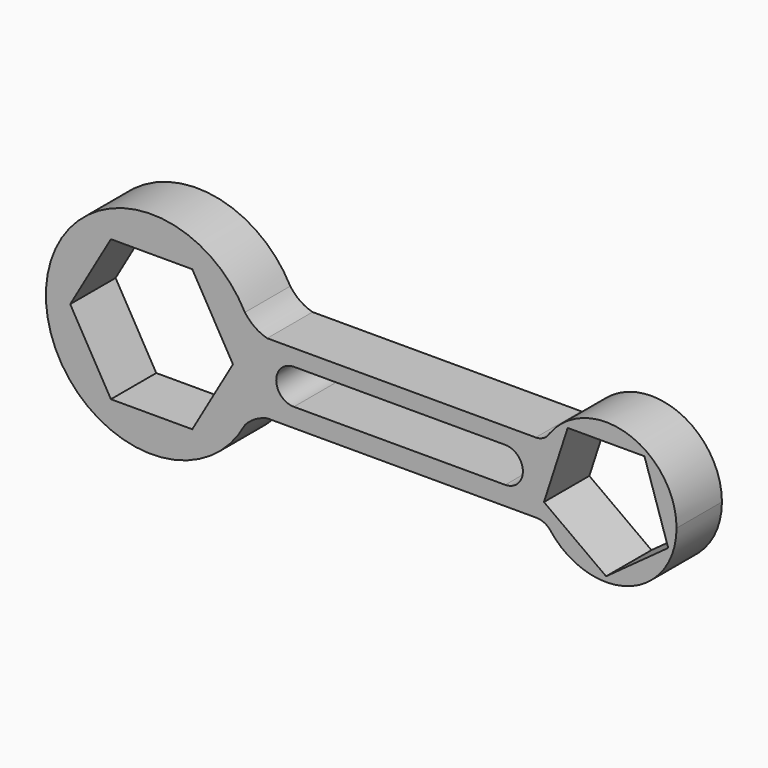
from build123d import *

# Parameters (mm, degrees)
F1_DEPTH = 16.1


with BuildPart() as f1:
    # F0 (on Front) → F1 (new body)
    with BuildSketch(Plane.XZ):
        with BuildLine():
            ThreePointArc((-102.505764, -6.33681), (-99.889632, 0.484755), (-99, 7.736407))
            ThreePointArc((-99, 7.736407), (-99.889632, 14.988059), (-102.505764, 21.809625))
            ThreePointArc((-102.505764, 21.809625), (-159, 7.736407), (-102.505764, -6.33681))
        make_face()
        Polygon((-152.094011, 7.736407), (-140.547005, 27.736407), (-117.452995, 27.736407), (-105.905989, 7.736407), (-117.452995, -12.263593), (-140.547005, -12.263593), align=None, mode=Mode.SUBTRACT)
        with BuildLine():
            ThreePointArc((-102.505764, 21.809625), (-99.889632, 14.988059), (-99, 7.736407))
            ThreePointArc((-99, 7.736407), (-99.889632, 0.484755), (-102.505764, -6.33681))
            ThreePointArc((-102.505764, -6.33681), (-99.648167, -3.961262), (-96.189544, -2.602213))
            Line((-96.189544, -2.602213), (-19.792281, -2.602213))
            ThreePointArc((-19.792281, -2.602213), (-17.772658, -3.010165), (-16.069729, -4.170053))
            ThreePointArc((-16.069729, -4.170053), (-19.995621, 7.317925), (-16.553813, 18.9601))
            ThreePointArc((-16.553813, 18.9601), (-18.084829, 17.807022), (-19.957294, 17.397787))
            Line((-19.957294, 17.397787), (-96.189544, 17.397787))
            ThreePointArc((-96.189544, 17.397787), (-99.734773, 19.049486), (-102.505764, 21.809625))
        make_face()
        with BuildLine():
            ThreePointArc((-88.614851, 2.736407), (-93.614851, 7.736407), (-88.614851, 12.736407))
            Line((-88.614851, 12.736407), (-28.614851, 12.736407))
            ThreePointArc((-28.614851, 12.736407), (-23.614851, 7.736407), (-28.614851, 2.736407))
            Line((-28.614851, 2.736407), (-88.614851, 2.736407))
        make_face(mode=Mode.SUBTRACT)
        with BuildLine():
            ThreePointArc((-16.069729, 19.642868), (-16.295821, 19.290176), (-16.553813, 18.9601))
            ThreePointArc((-16.553813, 18.9601), (-19.995621, 7.317925), (-16.069729, -4.170053))
            ThreePointArc((-16.069729, -4.170053), (6.269187, -11.255625), (20, 7.736407))
            ThreePointArc((20, 7.736407), (6.269187, 26.72844), (-16.069729, 19.642868))
        make_face()
        Polygon((-17.633558, 2.006917), (-10.898138, 22.736407), (10.898138, 22.736407), (17.633558, 2.006917), (0, -10.804612), align=None, mode=Mode.SUBTRACT)
        with BuildLine():
            ThreePointArc((-16.069729, 19.642868), (-16.315343, 19.304017), (-16.553813, 18.9601))
            ThreePointArc((-16.553813, 18.9601), (-16.295821, 19.290176), (-16.069729, 19.642868))
        make_face()
    extrude(amount=F1_DEPTH)


solid = f1.part
